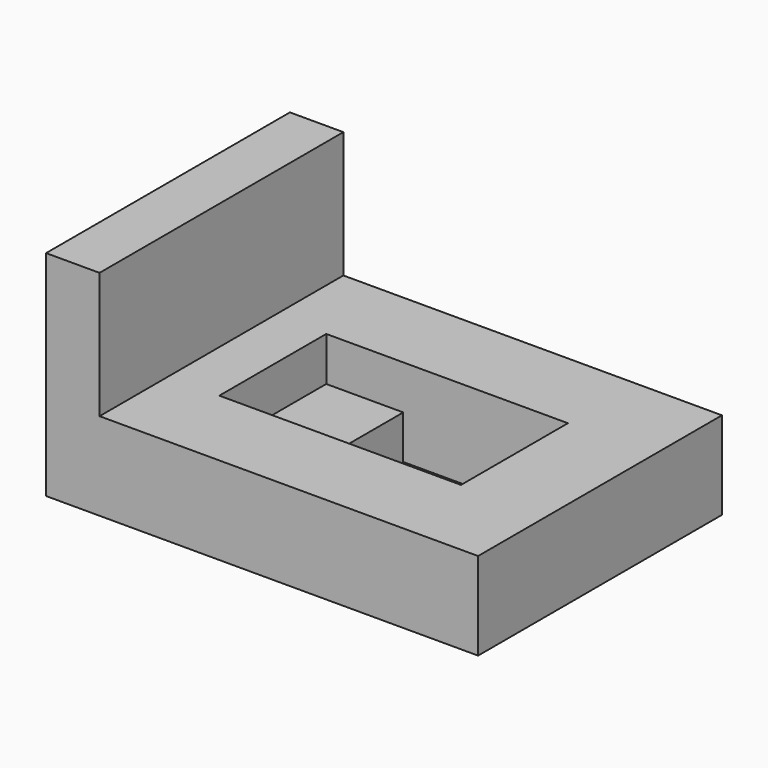
from build123d import *

# Parameters (mm, degrees)
F0_W     = 35.4
F0_H     = 28.5
F0_R     = 2
F1_DEPTH = 8.2
F0_W_2   = 5
F2_DEPTH = 20
F0_W_3   = 7.2
F0_H_2   = 12.5
F3_DEPTH = 4.08
F4_DEPTH = 4


with BuildPart() as f1:
    # F0 (on Top) → F1 (new body)
    with BuildSketch(Plane.XY):
        with Locations((3.049638, -0.700136)):
            Rectangle(F0_W, F0_H)
        with Locations((-10.650362, -10.950136)):
            Circle(F0_R, mode=Mode.SUBTRACT)
        with Locations((16.749638, -10.950136)):
            Circle(F0_R, mode=Mode.SUBTRACT)
        with Locations((-10.650362, 9.549864)):
            Circle(F0_R, mode=Mode.SUBTRACT)
        Polygon((-9.850362, -6.950136), (-9.850362, 5.549864), (-2.650362, 5.549864), (12.749638, 5.549864), (12.749638, -6.950136), (-2.650362, -6.950136), align=None, mode=Mode.SUBTRACT)
        with Locations((16.749638, 9.549864)):
            Circle(F0_R, mode=Mode.SUBTRACT)
        with Locations((-10.650362, 9.549864)):
            Circle(F0_R)
        with Locations((16.749638, 9.549864)):
            Circle(F0_R)
        with Locations((16.749638, -10.950136)):
            Circle(F0_R)
        with Locations((-10.650362, -10.950136)):
            Circle(F0_R)
    extrude(amount=F1_DEPTH)

    # F0 (on Top) → F2 (join)
    with BuildSketch(Plane.XY):
        with Locations((-17.150362, -0.700136)):
            Rectangle(F0_W_2, F0_H)
    extrude(amount=F2_DEPTH)

    # F0 (on Top) → F3 (join)
    with BuildSketch(Plane.XY):
        with Locations((-6.250362, -0.700136)):
            Rectangle(F0_W_3, F0_H_2)
    extrude(amount=F3_DEPTH)

    # F0 (on Top) → F4 (cut)
    with BuildSketch(Plane.XY):
        with Locations((-10.650362, -10.950136)):
            Circle(F0_R)
        with Locations((16.749638, -10.950136)):
            Circle(F0_R)
        with Locations((16.749638, 9.549864)):
            Circle(F0_R)
        with Locations((-10.650362, 9.549864)):
            Circle(F0_R)
    extrude(amount=F4_DEPTH, mode=Mode.SUBTRACT)


solid = f1.part
